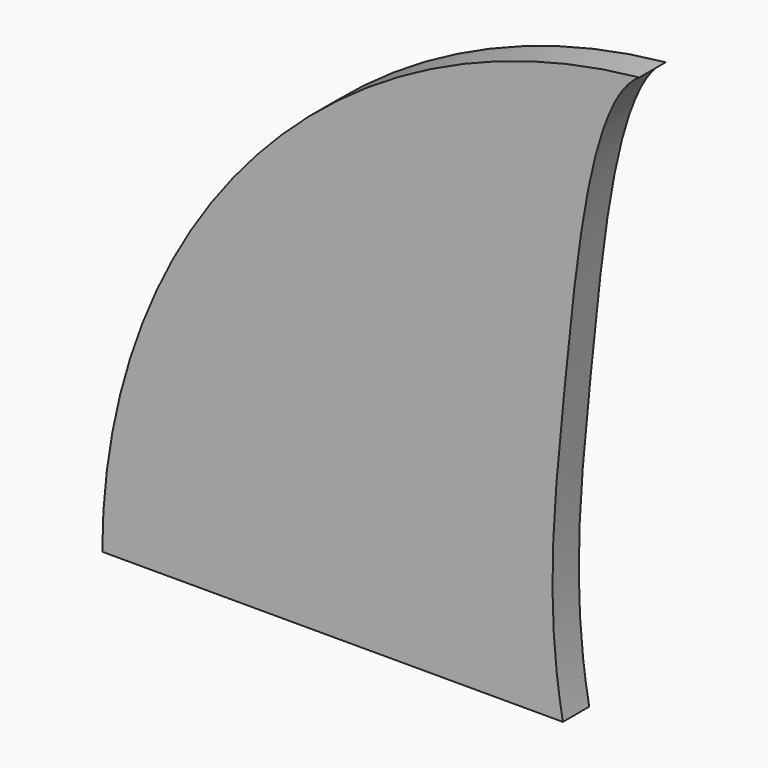
from build123d import *

# Parameters (mm, degrees)
F1_DEPTH = 6.35


with BuildPart() as f1:
    # F0 (on Front) → F1 (new body)
    with BuildSketch(Plane.XZ):
        with BuildLine():
            ThreePointArc((65.2093291283, 114.3), (-8.6412700381, 77.1176664566), (-38.4624444826, 0))
            Line((-38.4624444826, 0), (50.4375555174, 0))
            add(Edge.make_bspline(
                [(65.2093291283, 114.3), (55.9182864292, 108.4413465129), (50.5253468289, 53.4540198134), (46.8565200159, 19.4747992177), (50.4375555174, 0)],
                knots=[0, 0, 0, 0, 0.4954086412, 1, 1, 1, 1], degree=3))
        make_face()
    extrude(amount=F1_DEPTH)


solid = f1.part
